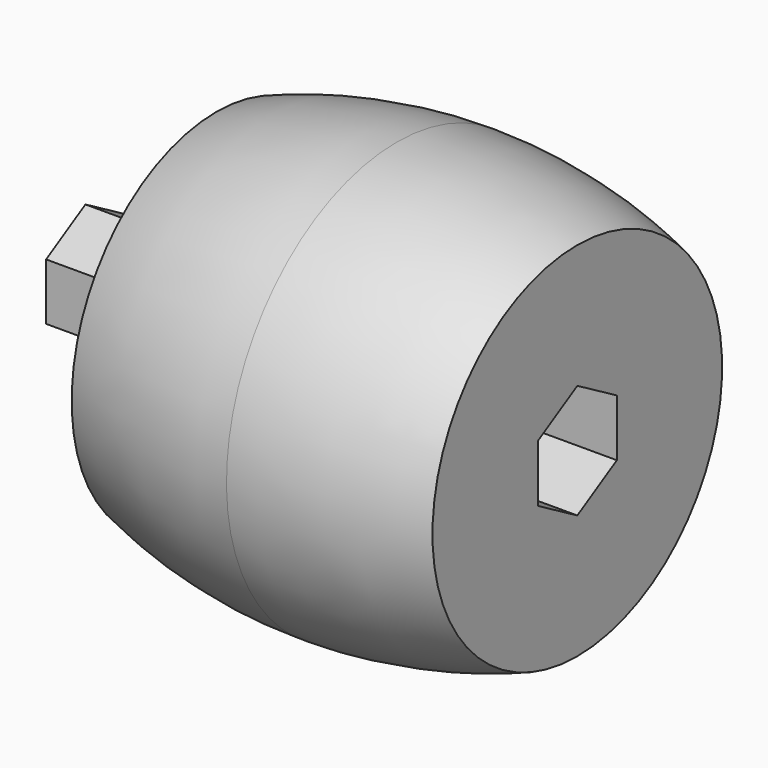
from build123d import *

# Parameters (mm, degrees)
F3_DEPTH = 12.7
F5_DEPTH = 12.7


with BuildPart() as f1:
    # F0 (on Front) → F1 (revolve)
    with BuildSketch(Plane.XZ):
        with BuildLine():
            ThreePointArc((17.4752, 17.537158), (8.874046, 19.85641), (0, 20.6375))
            ThreePointArc((0, 20.6375), (-8.874046, 19.85641), (-17.4752, 17.537158))
            Line((-17.4752, 17.537158), (-17.4752, 0))
            Line((-17.4752, 0), (17.4752, 0))
            Line((17.4752, 0), (17.4752, 17.537158))
        make_face()
    revolve(axis=Axis((-4.40496, 0, 0), (1, 0, 0)))

    # F2 (on face) → F3 (cut)
    with BuildSketch(Plane.YZ.offset(17.4752)):
        Polygon((4.7879, -2.764295), (4.7879, 2.764295), (0, 5.528591), (-4.7879, 2.764295), (-4.7879, -2.764295), (0, -5.528591), align=None)
    extrude(amount=-F3_DEPTH, mode=Mode.SUBTRACT)

    # F4 (on face) → F5 (join)
    with BuildSketch(Plane(origin=(-17.4752, 0, 0), x_dir=(0, -1, 0), z_dir=(-1, 0, 0))):
        Polygon((4.7625, -2.749631), (4.7625, 2.749631), (0, 5.499261), (-4.7625, 2.749631), (-4.7625, -2.749631), (0, -5.499261), align=None)
    extrude(amount=F5_DEPTH)


solid = f1.part
